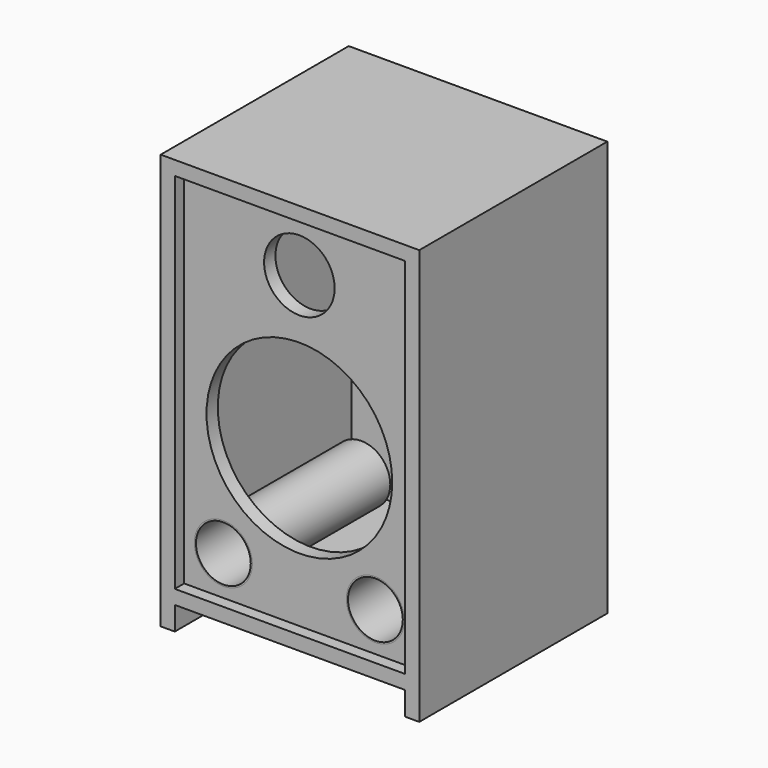
from build123d import *

# Parameters (mm, degrees)
F1_DEPTH  = 150
F2_W      = 294
F2_H      = 464
F3_DEPTH  = 282
F4_W      = 294
F4_H      = 464
F4_R      = 37
F4_R_2    = 118.5
F4_R_3    = 45
F5_DEPTH  = 33
F6_DEPTH  = 15
F7_R      = 40
F8_DEPTH  = 18
F9_R      = 37
F9_R_2    = 35
F10_DEPTH = 220


with BuildPart() as f1:
    # F0 (on Front) → F1 (new body, symmetric)
    with BuildSketch(Plane.XZ):
        Polygon((-165, 265), (-165, -265), (-147, -265), (-147, -235), (147, -235), (147, -265), (165, -265), (165, 265), align=None)
    extrude(amount=F1_DEPTH, both=True)

    # F2 (on face) → F3 (cut)
    with BuildSketch(Plane.XZ.offset(150)):
        with Locations((0, 15)):
            Rectangle(F2_W, F2_H)
    extrude(amount=-F3_DEPTH, mode=Mode.SUBTRACT)

    # F4 (on face) → F5 (join)
    with BuildSketch(Plane.XZ.offset(150)):
        with Locations((0, 15)):
            Rectangle(F4_W, F4_H)
        with Locations((-97, -167)):
            Circle(F4_R, mode=Mode.SUBTRACT)
        with Locations((97, -167)):
            Circle(F4_R, mode=Mode.SUBTRACT)
        with Locations((0, -17)):
            Circle(F4_R_2, mode=Mode.SUBTRACT)
        with Locations((0, 177)):
            Circle(F4_R_3, mode=Mode.SUBTRACT)
    extrude(amount=-F5_DEPTH)

    # F4 (on face) → F6 (cut)
    with BuildSketch(Plane.XZ.offset(150)):
        with Locations((0, 15)):
            Rectangle(F4_W, F4_H)
        with Locations((-97, -167)):
            Circle(F4_R, mode=Mode.SUBTRACT)
        with Locations((97, -167)):
            Circle(F4_R, mode=Mode.SUBTRACT)
        with Locations((0, -17)):
            Circle(F4_R_2, mode=Mode.SUBTRACT)
        with Locations((0, 177)):
            Circle(F4_R_3, mode=Mode.SUBTRACT)
    extrude(amount=-F6_DEPTH, mode=Mode.SUBTRACT)

    # F7 (on face) → F8 (cut, through all)
    with BuildSketch(Plane(origin=(0, 150, 0), x_dir=(-1, 0, 0), z_dir=(0, 1, 0))):
        with Locations((0, -67)):
            Circle(F7_R)
    extrude(amount=-F8_DEPTH, mode=Mode.SUBTRACT)


with BuildPart() as f10:
    # F9 (on face) → F10 (new body)
    with BuildSketch(Plane.XZ.offset(135)):
        with Locations((-97, -167)):
            Circle(F9_R)
        with Locations((-97, -167)):
            Circle(F9_R_2, mode=Mode.SUBTRACT)
        with Locations((97, -167)):
            Circle(F9_R)
        with Locations((97, -167)):
            Circle(F9_R_2, mode=Mode.SUBTRACT)
    extrude(amount=-F10_DEPTH)


solid = Compound([f1.part, f10.part])
